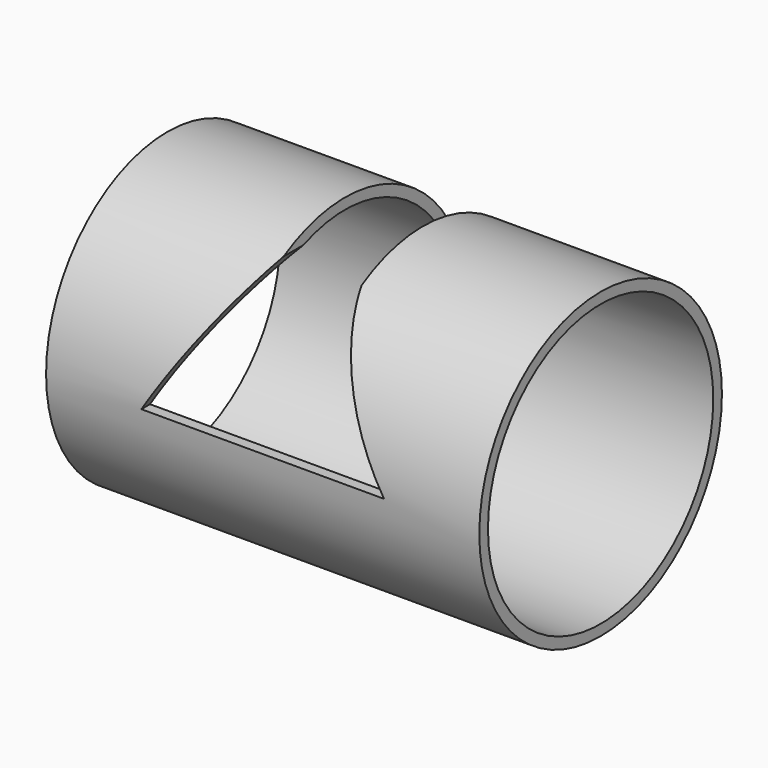
from build123d import *

# Parameters (mm, degrees)
F0_R          = 44.45
F0_R_2        = 41.275
F1_DEPTH      = 63.5
F1_DEPTH_BACK = 63.5
F3_DEPTH      = 57.912
F5_DEPTH      = 91.694
F7_DEPTH      = 40.132


with BuildPart() as f1:
    # F0 (on Right) → F1 (new body, two sides)
    with BuildSketch(Plane.YZ) as f1_sk:
        Circle(F0_R)
        Circle(F0_R_2, mode=Mode.SUBTRACT)
    extrude(amount=F1_DEPTH)
    extrude(f1_sk.sketch, amount=-F1_DEPTH_BACK)

    # F2 (on Front) → F3 (cut)
    with BuildSketch(Plane.XZ):
        Polygon((-35.56, 0), (0, 0), (35.56, 0), (11.43, 38.338508), (0, 38.338508), (-11.43, 38.338508), align=None)
    extrude(amount=F3_DEPTH, mode=Mode.SUBTRACT)

    # F4 (on Top) → F5 (cut)
    with BuildSketch(Plane.XY):
        Polygon((-11.43, -23.685547), (0, -23.685547), (11.43, -23.685547), (11.43, 27.390007), (-11.43, 27.390007), align=None)
    extrude(amount=F5_DEPTH, mode=Mode.SUBTRACT)

    # F6 (on Front) → F7 (cut)
    with BuildSketch(Plane.XZ):
        Polygon((-11.43, 0), (0, 0), (11.43, 0), (11.43, 35.2511), (0, 35.2511), (-11.43, 35.2511), align=None)
    extrude(amount=-F7_DEPTH, mode=Mode.SUBTRACT)


solid = f1.part
